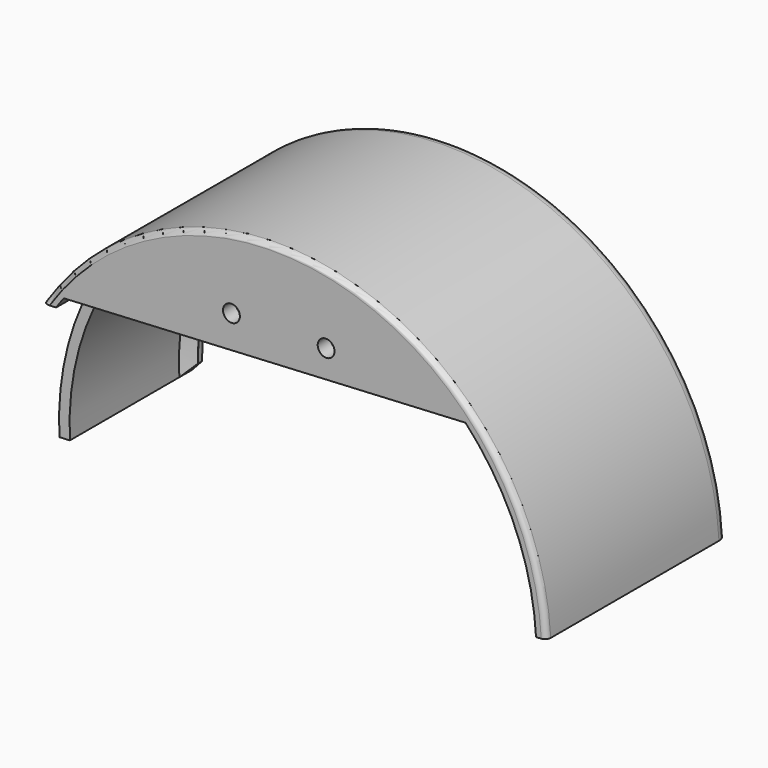
from build123d import *

# Parameters (mm, degrees)
BOX335_W                = 59
BOX335_H                = 20
BOX335_DEPTH            = 32
BOX335_PLACEMENT_ANGLE  = 3
CYLINDER480_R           = 1.6
CYLINDER480_DEPTH       = 9
CYLINDER482_R           = 1.6
CYLINDER482_DEPTH       = 9
BOX336_W                = 128
BOX336_H                = 3
BOX336_DEPTH            = 35
BOX336_PLACEMENT_ANGLE  = 3
CYLINDER487_W           = 52
CYLINDER487_H           = 3
CYLINDER487_ANGLE       = 180
CYLINDER487_ROLL_ANGLE  = 90
CYLINDER487_PITCH_ANGLE = -3
CYLINDER486_W           = 48
CYLINDER486_H           = 2
CYLINDER486_ANGLE       = 180
CYLINDER485_W           = 50
CYLINDER485_H           = 42
CYLINDER485_ANGLE       = 180
CYLINDER484_W           = 52
CYLINDER484_H           = 43
CYLINDER484_ANGLE       = 180
CUT340_PLACEMENT_ANGLE  = 3
FILLET122_R             = 2
FILLET123_R             = 1
CHAMFER050_SIZE         = 1.99
CHAMFER051_SIZE         = 1.99


with BuildPart() as cube406:
    # Box335 → Box335 (new body)
    with BuildSketch(Plane.XY):
        with Locations((29.5, 10)):
            Rectangle(BOX335_W, BOX335_H)
    extrude(amount=BOX335_DEPTH)


with BuildPart() as cube406_1:
    # Box335 placement: moved
    add(cube406.part.moved(Location((473, -33, -34))).rotate(Axis((473, -33, -34), (0, -1, 0)), BOX335_PLACEMENT_ANGLE))


with BuildPart() as cylinder480:
    # Cylinder480 → Cylinder480 (new body)
    with BuildSketch(Plane(origin=(546, -17, 10), x_dir=(1, 0, 0), z_dir=(0, -1, 0))):
        Circle(CYLINDER480_R)
    extrude(amount=CYLINDER480_DEPTH)


with BuildPart() as fusion434:
    # Cylinder482 → Cylinder482 (new body)
    with BuildSketch(Plane(origin=(564, -17, 10), x_dir=(1, 0, 0), z_dir=(0, -1, 0))):
        Circle(CYLINDER482_R)
    extrude(amount=CYLINDER482_DEPTH)

    # Fusion434: union Cylinder480
    add(cylinder480.part)


with BuildPart() as cube407:
    # Box336 → Box336 (new body)
    with BuildSketch(Plane.XY):
        with Locations((64, 1.5)):
            Rectangle(BOX336_W, BOX336_H)
    extrude(amount=BOX336_DEPTH)


with BuildPart() as cube407_1:
    # Box336 placement: moved
    add(cube407.part.moved(Location((382, -9, -40.8))).rotate(Axis((382, -9, -40.8), (0, -1, 0)), BOX336_PLACEMENT_ANGLE))


with BuildPart() as cut341:
    # Cylinder487 → Cylinder487 (revolve)
    with BuildSketch(Plane.XZ):
        with Locations((26, 1.5)):
            Rectangle(CYLINDER487_W, CYLINDER487_H)
    revolve(axis=Axis((0, 0, 0), (0, 0, 1)), revolution_arc=CYLINDER487_ANGLE)


with BuildPart() as cut341_1:
    # Cylinder487 roll: moved
    add(cut341.part.rotate(Axis((0, 0, 0), (1, 0, 0)), CYLINDER487_ROLL_ANGLE))


with BuildPart() as cut341_2:
    # Cylinder487 pitch: moved
    add(cut341_1.part.rotate(Axis((0, 0, 0), (0, 1, 0)), CYLINDER487_PITCH_ANGLE))


with BuildPart() as cut341_3:
    # Cylinder487 placement: moved
    add(cut341_2.part.moved(Location((448.581401, -6, -35.39126))))

    # Cut341: cut Cube407
    add(cube407_1.part, mode=Mode.SUBTRACT)


with BuildPart() as cut341_4:
    # Cut341 placement: moved
    add(cut341_3.part.moved(Location((105.48, -13, 6.5))))


with BuildPart() as cylinder486:
    # Cylinder486 → Cylinder486 (revolve)
    with BuildSketch(Plane(origin=(554, -60, -28), x_dir=(1, 0, 0), z_dir=(0, 0, -1))):
        with Locations((24, 1)):
            Rectangle(CYLINDER486_W, CYLINDER486_H)
    revolve(axis=Axis((554, -60, -28), (0, -1, 0)), revolution_arc=CYLINDER486_ANGLE)


with BuildPart() as fusion435:
    # Cylinder485 → Cylinder485 (revolve)
    with BuildSketch(Plane(origin=(554, -19, -28), x_dir=(1, 0, 0), z_dir=(0, 0, -1))):
        with Locations((25, 21)):
            Rectangle(CYLINDER485_W, CYLINDER485_H)
    revolve(axis=Axis((554, -19, -28), (0, -1, 0)), revolution_arc=CYLINDER485_ANGLE)

    # Fusion435: union Cylinder486
    add(cylinder486.part)


with BuildPart() as fender_rear_left:
    # Cylinder484 → Cylinder484 (revolve)
    with BuildSketch(Plane(origin=(554, -19, -28), x_dir=(1, 0, 0), z_dir=(0, 0, -1))):
        with Locations((26, 21.5)):
            Rectangle(CYLINDER484_W, CYLINDER484_H)
    revolve(axis=Axis((554, -19, -28), (0, -1, 0)), revolution_arc=CYLINDER484_ANGLE)

    # Cut340: cut Fusion435
    add(fusion435.part, mode=Mode.SUBTRACT)


with BuildPart() as fender_rear_left_1:
    # Cut340 placement: moved
    add(fender_rear_left.part.moved(Location((-0.706169, 0, -29.032493))).rotate(Axis((-0.706169, 0, -29.032493), (0, -1, 0)), CUT340_PLACEMENT_ANGLE))

    # Fusion436: union Cut341
    add(cut341_4.part)

    # Cut344: cut Fusion434
    add(fusion434.part, mode=Mode.SUBTRACT)

    # Cut346: cut Cube406
    add(cube406_1.part, mode=Mode.SUBTRACT)

    # Fillet122
    fillet122_edges = [fender_rear_left_1.edges().sort_by_distance(p)[0] for p in [
        (551.27853, -62, 23.928736),
    ]]
    fillet(fillet122_edges, radius=FILLET122_R)

    # Fillet123
    fillet123_edges = [fender_rear_left_1.edges().sort_by_distance(p)[0] for p in [
        (567.269532, -19, 22.27842),
    ]]
    fillet(fillet123_edges, radius=FILLET123_R)

    # Chamfer050
    chamfer050_edges = [fender_rear_left_1.edges().sort_by_distance(p)[0] for p in [
        (551.383202, -61, 21.931477),
    ]]
    chamfer(chamfer050_edges, length=CHAMFER050_SIZE)

    # Chamfer051
    chamfer051_edges = [fender_rear_left_1.edges().sort_by_distance(p)[0] for p in [
        (601.934218, -61.5, -25.487874),
        (506.065782, -61.5, -30.512126),
    ]]
    chamfer(chamfer051_edges, length=CHAMFER051_SIZE)


with BuildPart() as fender_rear_right:
    # Part__Mirroring010: instance of fender-rear-left_
    add(fender_rear_left_1.part.mirror(Plane(origin=(0, 0, 0), x_dir=(1, 0, 0), z_dir=(0, 1, 0))))


with BuildPart() as fender_rear_right_1:
    # Part__Mirroring010 placement: moved
    add(fender_rear_right.part.moved(Location((0, 62, 0))))


solid = fender_rear_right_1.part
